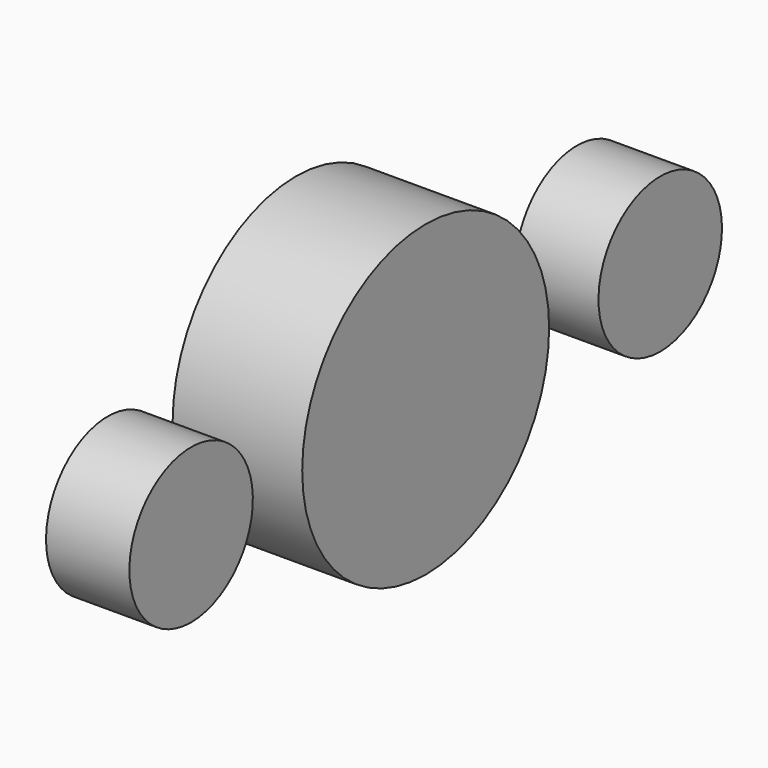
from build123d import *

# Parameters (mm, degrees)
CYLINDER095_R           = 2.5
CYLINDER095_DEPTH       = 2.7
CYLINDER095_PITCH_ANGLE = 90
CYLINDER096_R           = 2.5
CYLINDER096_DEPTH       = 2.7
CYLINDER096_PITCH_ANGLE = 90
CYLINDER097_R           = 5
CYLINDER097_DEPTH       = 4.2
CYLINDER097_PITCH_ANGLE = 90


with BuildPart() as cylinder095:
    # Cylinder095 → Cylinder095 (new body)
    with BuildSketch(Plane.XY):
        Circle(CYLINDER095_R)
    extrude(amount=CYLINDER095_DEPTH)


with BuildPart() as cylinder095_1:
    # Cylinder095 pitch: moved
    add(cylinder095.part.rotate(Axis((0, 0, 0), (0, 1, 0)), CYLINDER095_PITCH_ANGLE))


with BuildPart() as cylinder095_2:
    # Cylinder095 placement: moved
    add(cylinder095_1.part.moved(Location((30.3, 5.5, 27))))


with BuildPart() as cylinder096:
    # Cylinder096 → Cylinder096 (new body)
    with BuildSketch(Plane.XY):
        Circle(CYLINDER096_R)
    extrude(amount=CYLINDER096_DEPTH)


with BuildPart() as cylinder096_1:
    # Cylinder096 pitch: moved
    add(cylinder096.part.rotate(Axis((0, 0, 0), (0, 1, 0)), CYLINDER096_PITCH_ANGLE))


with BuildPart() as cylinder096_2:
    # Cylinder096 placement: moved
    add(cylinder096_1.part.moved(Location((30.3, 24.5, 27))))


with BuildPart() as middle_part_support:
    # Cylinder097 → Cylinder097 (new body)
    with BuildSketch(Plane.XY):
        Circle(CYLINDER097_R)
    extrude(amount=CYLINDER097_DEPTH)


with BuildPart() as middle_part_support_1:
    # Cylinder097 pitch: moved
    add(middle_part_support.part.rotate(Axis((0, 0, 0), (0, 1, 0)), CYLINDER097_PITCH_ANGLE))


with BuildPart() as middle_part_support_2:
    # Cylinder097 placement: moved
    add(middle_part_support_1.part.moved(Location((28.8, 15, 27))))

    # Fusion052: union Cylinder095, Cylinder096
    add(cylinder095_2.part)
    add(cylinder096_2.part)


solid = middle_part_support_2.part
